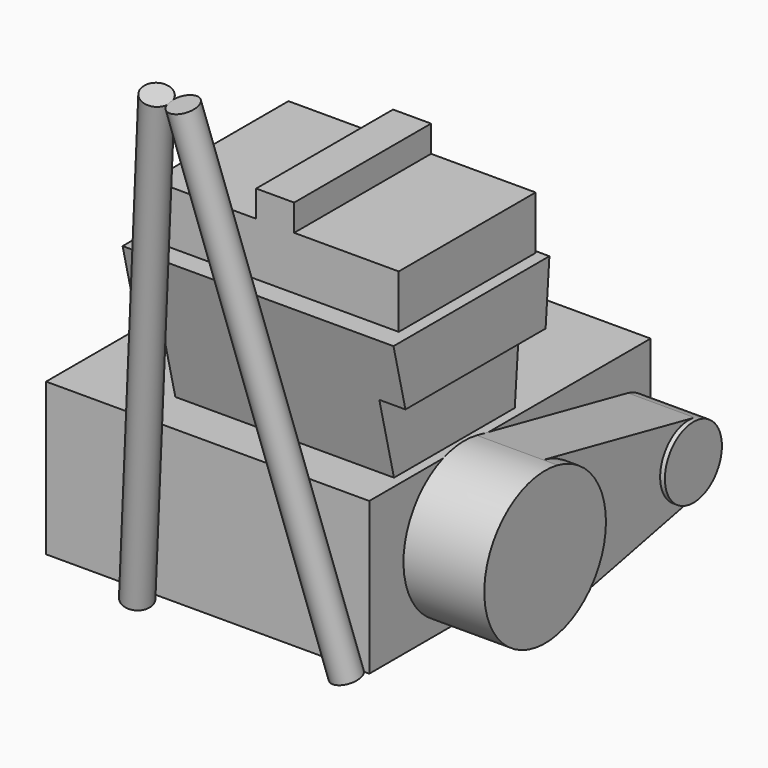
from build123d import *

# Parameters (mm, degrees)
F0_W      = 10
F0_H      = 160
F0_W_2    = 230
F0_H_2    = 80
F1_DEPTH  = 370
F3_DEPTH  = 357.501
F10_DEPTH = 70
F12_DEPTH = 15
F13_DEPTH = 5


with BuildPart() as f1:
    # F0 (on Front) → F1 (new body)
    with BuildSketch(Plane.XZ):
        Polygon((-215, 160), (-215, 0), (115, 0), (115, 160), (-115, 160), align=None)
        with Locations((120, 80)):
            Rectangle(F0_W, F0_H)
        with Locations((0, 200)):
            Rectangle(F0_W_2, F0_H_2)
        Polygon((-115, 240), (115, 240), (142.5, 240), (142.5, 305), (130, 305), (-130, 305), (-142.5, 305), (-142.5, 240), align=None)
        Polygon((-130, 305), (130, 305), (130, 361), (20, 361), (20, 389), (-20, 389), (-20, 361), (-130, 361), align=None)
    extrude(amount=-F1_DEPTH)

    # F2 (on face) → F3 (cut, through all)
    with BuildSketch(Plane(origin=(-215, 0, 0), x_dir=(0, -1, 0), z_dir=(-1, 0, 0))):
        Polygon((-405.7104587555, 160), (-370, 160), (-203.8461538462, 160), (-210, 240), (-215, 305), (-212.5, 305), (-212.5, 390), (-405.7104587555, 390), align=None)
        Polygon((-25.6896551724, 240), (-45, 160), (0, 160), (90.0000333786, 160), (90.0000333786, 390), (-32.5, 390), (-32.5, 305), (-10, 305), align=None)
    extrude(amount=-F3_DEPTH, mode=Mode.SUBTRACT)

    # F9 (on face) → F10 (join)
    with BuildSketch(Plane.YZ.offset(125)):
        with BuildLine():
            Line((152.8388218141, 160), (97.1611781859, 160))
            ThreePointArc((97.1611781859, 160), (48.1343878644, 62.826194034), (141.3855421687, 6.696015377))
            ThreePointArc((141.3855421687, 6.696015377), (187.0920420565, 34.5561865711), (205, 85))
            ThreePointArc((205, 85), (190.6776436283, 130.6776436283), (152.8388218141, 160))
        make_face()
        with BuildLine():
            Line((157.1747762661, 160), (152.8388218141, 160))
            ThreePointArc((152.8388218141, 160), (190.6776436283, 130.6776436283), (205, 85))
            ThreePointArc((205, 85), (187.0920420565, 34.5561865711), (141.3855421687, 6.696015377))
            Line((141.3855421687, 6.696015377), (340.1807228916, 48.295007208))
            ThreePointArc((340.1807228916, 48.295007208), (295, 85), (340.1807228916, 121.704992792))
            Line((340.1807228916, 121.704992792), (157.1747762661, 160))
        make_face()
        with BuildLine():
            ThreePointArc((340.1807228916, 48.295007208), (361.605644714, 61.3544624552), (370, 85))
            ThreePointArc((370, 85), (361.605644714, 108.6455375448), (340.1807228916, 121.704992792))
            ThreePointArc((340.1807228916, 121.704992792), (295, 85), (340.1807228916, 48.295007208))
        make_face()
        with BuildLine():
            ThreePointArc((141.3855421687, 163.303984623), (119.0398420947, 164.7776692925), (97.1611781859, 160))
            Line((97.1611781859, 160), (152.8388218141, 160))
            ThreePointArc((152.8388218141, 160), (147.173805966, 161.8656121356), (141.3855421687, 163.303984623))
        make_face()
        with BuildLine():
            ThreePointArc((141.3855421687, 163.303984623), (147.173805966, 161.8656121356), (152.8388218141, 160))
            Line((152.8388218141, 160), (157.1747762661, 160))
            Line((157.1747762661, 160), (141.3855421687, 163.303984623))
        make_face()
    extrude(amount=F10_DEPTH)

    # F11 (on face) → F12 (join)
    with BuildSketch(Plane.YZ.offset(195)):
        with BuildLine():
            ThreePointArc((141.3855421687, 6.696015377), (187.0920420565, 34.5561865711), (205, 85))
            ThreePointArc((205, 85), (187.0920420565, 135.4438134289), (141.3855421687, 163.303984623))
            ThreePointArc((141.3855421687, 163.303984623), (45, 85), (141.3855421687, 6.696015377))
        make_face()
    extrude(amount=F12_DEPTH)

    # F11 (on face) → F13 (join)
    with BuildSketch(Plane.YZ.offset(195)):
        with BuildLine():
            ThreePointArc((370, 85), (361.605644714, 108.6455375448), (340.1807228916, 121.704992792))
            ThreePointArc((340.1807228916, 121.704992792), (295, 85), (340.1807228916, 48.295007208))
            ThreePointArc((340.1807228916, 48.295007208), (361.605644714, 61.3544624552), (370, 85))
        make_face()
    extrude(amount=F13_DEPTH)


with BuildPart() as f7:
    # F6 (on line) → F7 (revolve)
    with BuildSketch(Plane(origin=(0, -11.4322409497, -2.0158125294), x_dir=(-1, 0, 0), z_dir=(0, 0.984807753, 0.1736481777))):
        Polygon((-124.7720400912, 2.605154839), (-110, 0), (-56.2202708839, 305), (-14.0256089805, 544.2978189377), (-28.7977252757, 546.9025416027), (-70.9919709792, 307.6070830518), align=None)
    revolve(axis=Axis((83.110135442, -37.9135880439, 148.167369805), (-0.1736481777, -0.1710100717, 0.9698463104)))


with BuildPart() as f8:
    # F6 (on line) → F8 (revolve)
    with BuildSketch(Plane(origin=(0, -11.4322409497, -2.0158125294), x_dir=(-1, 0, 0), z_dir=(0, 0.984807753, 0.1736481777))):
        Polygon((28.7977252757, 546.9025416027), (14.0256089805, 544.2978189377), (56.2202708839, 305), (110, 0), (124.7720400912, 2.605154839), (70.9919709792, 307.6070830518), align=None)
    revolve(axis=Axis((-28.110135442, -92.0780144595, 455.3490966062), (0.1736481777, -0.1710100717, 0.9698463104)))


solid = Compound([f1.part, f7.part, f8.part])
